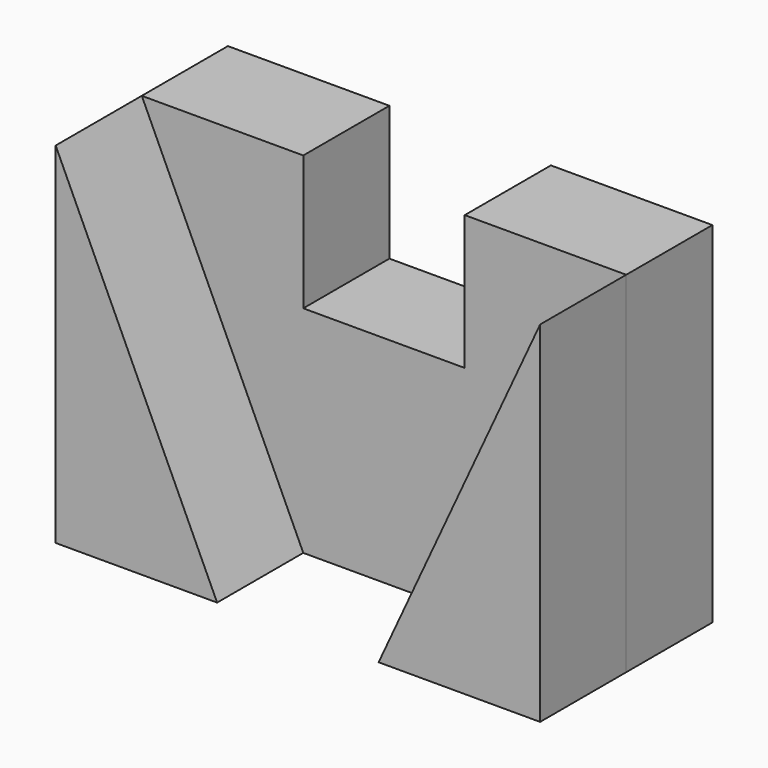
from build123d import *

# Parameters (mm, degrees)
F1_DEPTH = 20
F3_DEPTH = 20


with BuildPart() as f1:
    # F0 (on Front) → F1 (new body)
    with BuildSketch(Plane.XZ):
        Polygon((45, 7.5), (45, 32.5), (15, 32.5), (15, 7.5), (-15, 7.5), (-15, 32.5), (-45, 32.5), (-45, 7.5), (-45, -32.5), (45, -32.5), align=None)
    extrude(amount=F1_DEPTH)


with BuildPart() as f3:
    # F2 (on face) → F3 (new body)
    with BuildSketch(Plane.XZ.offset(20)):
        Polygon((-15, -32.5), (-45, 32.5), (-45, -32.5), align=None)
        Polygon((45, 32.5), (15, -32.5), (45, -32.5), align=None)
    extrude(amount=F3_DEPTH)


solid = Compound([f1.part, f3.part])
